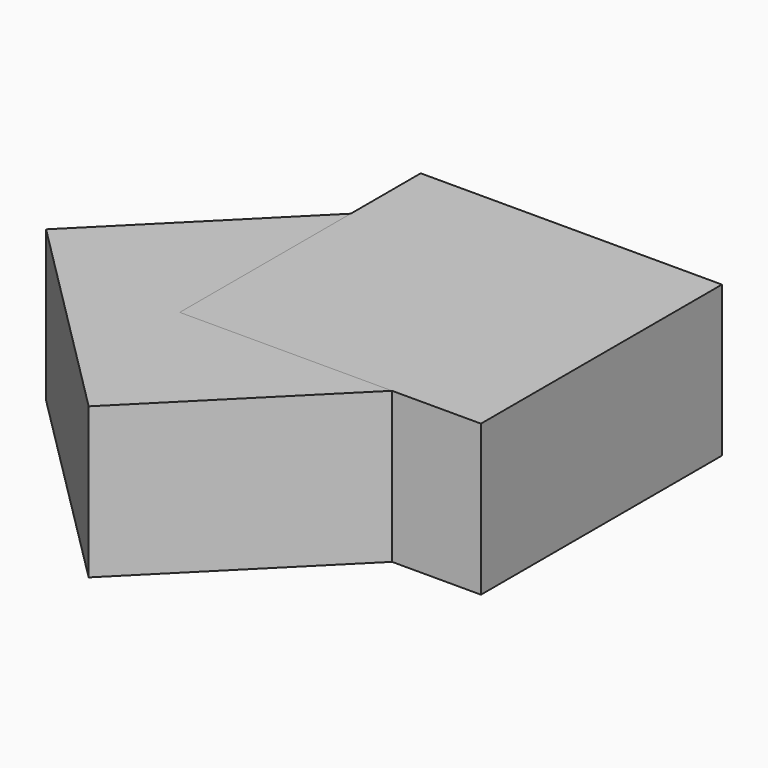
from build123d import *

# Parameters (mm, degrees)
F1_DEPTH = 10
F2_DEPTH = 10


with BuildPart() as f1:
    # F0 (on Top) → F1 (new body)
    with BuildSketch(Plane.XY):
        Polygon((20, 20), (0, 20), (2.904762, 17.095238), (10, 10), align=None)
        Polygon((2.904762, 17.095238), (0, 14.190475), (0, 0), (10, 10), align=None)
        Polygon((2.904762, 17.095238), (0, 20), (0, 14.190475), align=None)
        Polygon((17.046898, 2.953102), (10, 10), (0, 0), (14.093796, 0), align=None)
        Polygon((14.093796, 0), (20, 0), (17.046898, 2.953102), align=None)
        Polygon((20, 0), (20, 20), (10, 10), (17.046898, 2.953102), align=None)
    extrude(amount=F1_DEPTH)


with BuildPart() as f2:
    # F0 (on Top) → F2 (new body)
    with BuildSketch(Plane.XY):
        Polygon((0, 0), (0, 14.190475), (-11.237373, 2.953102), (2.904762, -11.189034), (14.093796, 0), align=None)
    extrude(amount=F2_DEPTH)


solid = Compound([f1.part, f2.part])
